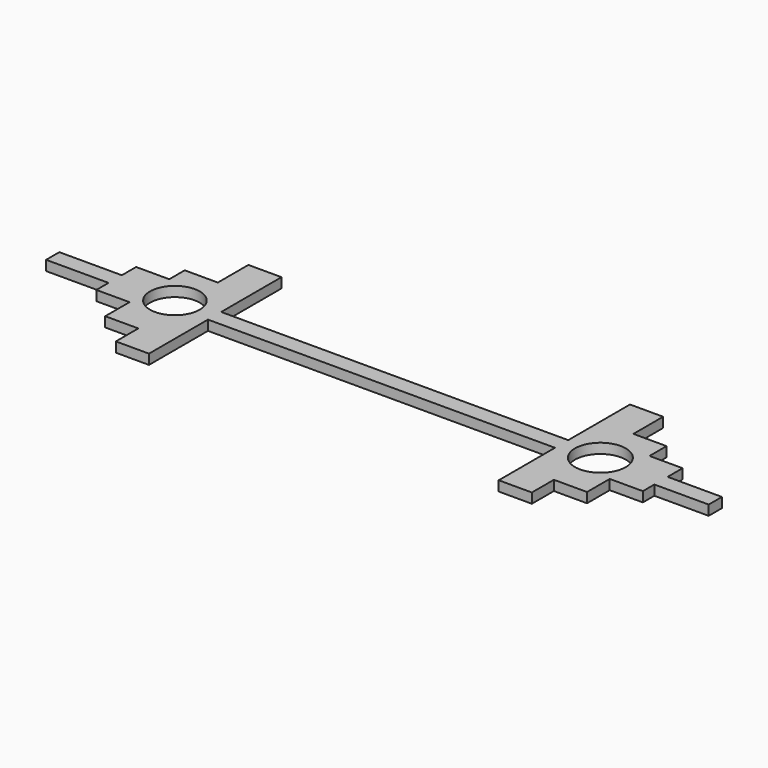
from build123d import *

# Parameters (mm, degrees)
F1_DEPTH = 3
F2_R     = 7.5
F2_R_2   = 7.667909
F3_DEPTH = 3


with BuildPart() as f1:
    # F0 (on Top) → F1 (new body)
    with BuildSketch(Plane.XY):
        Polygon((-80.712482, 2.27117), (-99.575336, 2.27117), (-99.575336, -2.72883), (-80.712482, -2.72883), (-80.712482, -7.332091), (-70.712482, -7.332091), (-70.712482, -16.502233), (-60.712482, -16.502233), (-60.712482, -24.984615), (-50.712482, -24.984615), (-50.712482, -2.72883), (54.033006, -2.72883), (54.033006, -23.955768), (64.033006, -23.955768), (64.033006, -15.635606), (74.033006, -15.635606), (74.033006, -7.071825), (84.033006, -7.071825), (84.033006, -2.72883), (100.424664, -2.72883), (100.424664, 2.27117), (84.033006, 2.27117), (84.033006, 7.928175), (74.033006, 7.928175), (74.033006, 14.364394), (64.033006, 14.364394), (64.033006, 25.580699), (54.033006, 25.580699), (54.033006, 2.27117), (-50.712482, 2.27117), (-50.712482, 25.015385), (-60.712482, 25.015385), (-60.712482, 13.497767), (-70.712482, 13.497767), (-70.712482, 7.667909), (-80.712482, 7.667909), align=None)
    extrude(amount=F1_DEPTH)

    # F2 (on face) → F3 (cut, through all)
    with BuildSketch(Plane.XY.offset(3)):
        with Locations((-62.873773, 0)):
            Circle(F2_R)
        with Locations((65.563552, 0)):
            Circle(F2_R_2)
    extrude(amount=-F3_DEPTH, mode=Mode.SUBTRACT)


solid = f1.part
